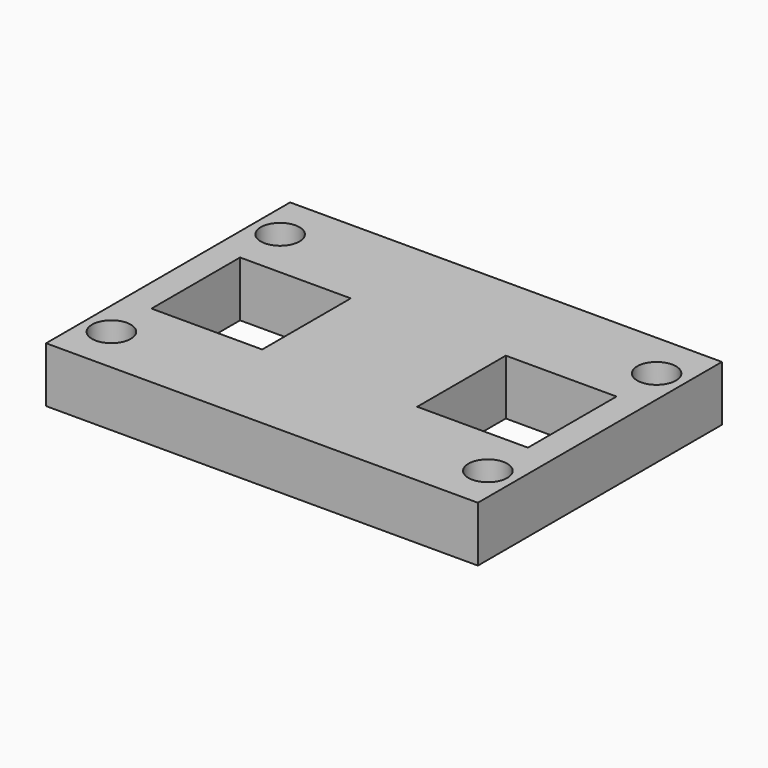
from build123d import *

# Parameters (mm, degrees)
F0_W     = 39
F0_H     = 27.55
F1_DEPTH = 5
F2_R     = 1.75
F3_DEPTH = 25
F4_W     = 10
F4_H     = 10
F5_DEPTH = 25


with BuildPart() as f1:
    # F0 (on Top) → F1 (new body)
    with BuildSketch(Plane.XY):
        Rectangle(F0_W, F0_H)
    extrude(amount=F1_DEPTH)

    # F2 (on face) → F3 (cut)
    with BuildSketch(Plane.XY.offset(5)):
        with Locations((-17, 9.525)):
            Circle(F2_R)
        with Locations((-17, -9.525)):
            Circle(F2_R)
        with Locations((17, -9.525)):
            Circle(F2_R)
        with Locations((17, 9.525)):
            Circle(F2_R)
    extrude(amount=-F3_DEPTH, mode=Mode.SUBTRACT)

    # F4 (on face) → F5 (cut)
    with BuildSketch(Plane.XY.offset(5)):
        with Locations((-12, 0)):
            Rectangle(F4_W, F4_H)
        with Locations((12, 0)):
            Rectangle(F4_W, F4_H)
    extrude(amount=-F5_DEPTH, mode=Mode.SUBTRACT)


solid = f1.part
